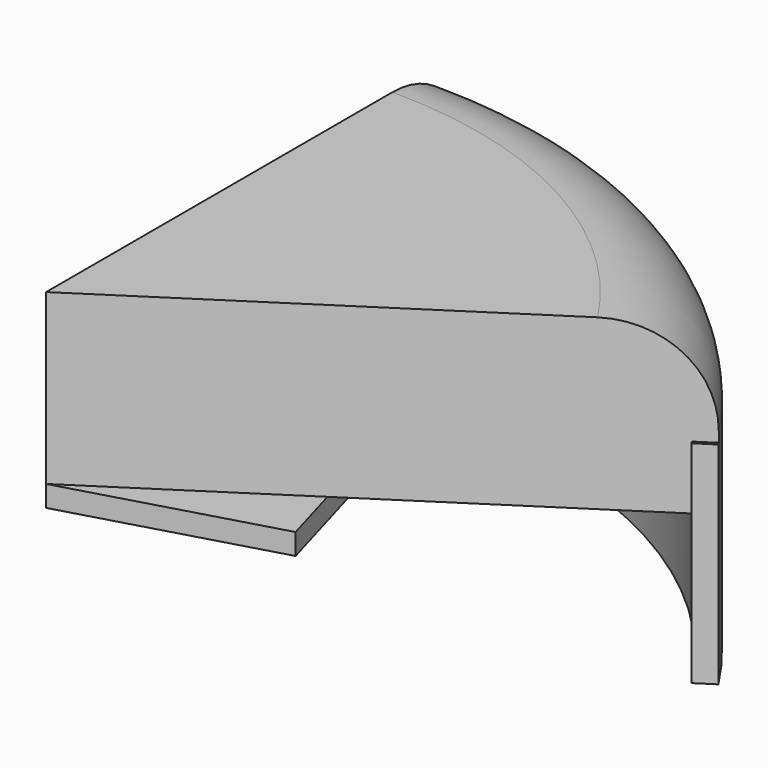
from build123d import *

# Parameters (mm, degrees)
BOX002_W               = 10
BOX002_H               = 9
BOX002_DEPTH           = 1
BOX002_PLACEMENT_ANGLE = 16
CYLINDER001_R          = 22
CYLINDER001_DEPTH      = 37
CYLINDER_R             = 25
CYLINDER_DEPTH         = 40
CYLINDER004_R          = 21
CYLINDER004_DEPTH      = 21
CYLINDER003_R          = 23
CYLINDER003_DEPTH      = 10
CYLINDER002_R          = 25
CYLINDER002_DEPTH      = 5
FILLET_R               = 4.5
BOX001_W               = 37
BOX001_H               = 39
BOX001_DEPTH           = 10
BOX001_PLACEMENT_ANGLE = 57
BOX_W                  = 37
BOX_H                  = 39
BOX_DEPTH              = 10
BOX004_W               = 33
BOX004_H               = 70
BOX004_DEPTH           = 17
BOX003_W               = 33
BOX003_H               = 70
BOX003_DEPTH           = 17
BOX003_PLACEMENT_ANGLE = 57
CYLINDER006_R          = 24
CYLINDER006_DEPTH      = 10
CYLINDER005_R          = 25
CYLINDER005_DEPTH      = 10


with BuildPart() as cubo002:
    # Box002 → Box002 (new body)
    with BuildSketch(Plane.XY):
        with Locations((5, 4.5)):
            Rectangle(BOX002_W, BOX002_H)
    extrude(amount=BOX002_DEPTH)


with BuildPart() as cubo002_1:
    # Box002 placement: moved
    add(cubo002.part.moved(Location((0, 0, 36))).rotate(Axis((0, 0, 36), (0, 0, 1)), BOX002_PLACEMENT_ANGLE))


with BuildPart() as cilindro001:
    # Cylinder001 → Cylinder001 (new body)
    with BuildSketch(Plane.XY):
        Circle(CYLINDER001_R)
    extrude(amount=CYLINDER001_DEPTH)


with BuildPart() as cut:
    # Cylinder → Cylinder (new body)
    with BuildSketch(Plane.XY):
        Circle(CYLINDER_R)
    extrude(amount=CYLINDER_DEPTH)

    # Cut: cut Cilindro001
    add(cilindro001.part, mode=Mode.SUBTRACT)


with BuildPart() as cilindro004:
    # Cylinder004 → Cylinder004 (new body)
    with BuildSketch(Plane.XY):
        Circle(CYLINDER004_R)
    extrude(amount=CYLINDER004_DEPTH)


with BuildPart() as cut001:
    # Cylinder003 → Cylinder003 (new body)
    with BuildSketch(Plane.XY):
        Circle(CYLINDER003_R)
    extrude(amount=CYLINDER003_DEPTH)

    # Cut001: cut Cilindro004
    add(cilindro004.part, mode=Mode.SUBTRACT)


with BuildPart() as cut001_1:
    # Cut001 placement: moved
    add(cut001.part.moved(Location((0, 0, -5))))


with BuildPart() as fusion:
    # Cylinder002 → Cylinder002 (new body)
    with BuildSketch(Plane.XY.offset(40)):
        Circle(CYLINDER002_R)
    extrude(amount=CYLINDER002_DEPTH)

    # Fillet
    fillet_edges = [fusion.edges().sort_by_distance(p)[0] for p in [
        (-25, 0, 45),
    ]]
    fillet(fillet_edges, radius=FILLET_R)

    # Fusion: union Cut, Cut001
    add(cut.part)
    add(cut001_1.part)


with BuildPart() as cubo001:
    # Box001 → Box001 (new body)
    with BuildSketch(Plane.XY):
        with Locations((18.5, 19.5)):
            Rectangle(BOX001_W, BOX001_H)
    extrude(amount=BOX001_DEPTH)


with BuildPart() as cubo001_1:
    # Box001 placement: moved
    add(cubo001.part.moved(Location((0, 0, 37))).rotate(Axis((0, 0, 37), (0, 0, -1)), BOX001_PLACEMENT_ANGLE))


with BuildPart() as common:
    # Box → Box (new body)
    with BuildSketch(Plane.XY.offset(37)):
        with Locations((18.5, 19.5)):
            Rectangle(BOX_W, BOX_H)
    extrude(amount=BOX_DEPTH)

    # Cut002: cut Cubo001
    add(cubo001_1.part, mode=Mode.SUBTRACT)

    # Common: intersect Fusion
    add(fusion.part, mode=Mode.INTERSECT)


with BuildPart() as cubo004:
    # Box004 → Box004 (new body)
    with BuildSketch(Plane(origin=(-33, -19, 29), x_dir=(1, 0, 0), z_dir=(0, 0, 1))):
        with Locations((16.5, 35)):
            Rectangle(BOX004_W, BOX004_H)
    extrude(amount=BOX004_DEPTH)


with BuildPart() as fusion001:
    # Box003 → Box003 (new body)
    with BuildSketch(Plane.XY):
        with Locations((16.5, 35)):
            Rectangle(BOX003_W, BOX003_H)
    extrude(amount=BOX003_DEPTH)


with BuildPart() as fusion001_1:
    # Box003 placement: moved
    add(fusion001.part.moved(Location((-29, -19, 29))).rotate(Axis((-29, -19, 29), (0, 0, -1)), BOX003_PLACEMENT_ANGLE))

    # Fusion001: union Cubo004
    add(cubo004.part)


with BuildPart() as cilindro006:
    # Cylinder006 → Cylinder006 (new body)
    with BuildSketch(Plane.XY.offset(34)):
        Circle(CYLINDER006_R)
    extrude(amount=CYLINDER006_DEPTH)


with BuildPart() as fusion002:
    # Cylinder005 → Cylinder005 (new body)
    with BuildSketch(Plane.XY.offset(34)):
        Circle(CYLINDER005_R)
    extrude(amount=CYLINDER005_DEPTH)

    # Cut003: cut Cilindro006
    add(cilindro006.part, mode=Mode.SUBTRACT)

    # Cut004: cut Fusion001
    add(fusion001_1.part, mode=Mode.SUBTRACT)


with BuildPart() as fusion002_1:
    # Cut004 placement: moved
    add(fusion002.part.moved(Location((0, 0, -4))))

    # Fusion002: union Cubo002, Common
    add(cubo002_1.part)
    add(common.part)


solid = fusion002_1.part
